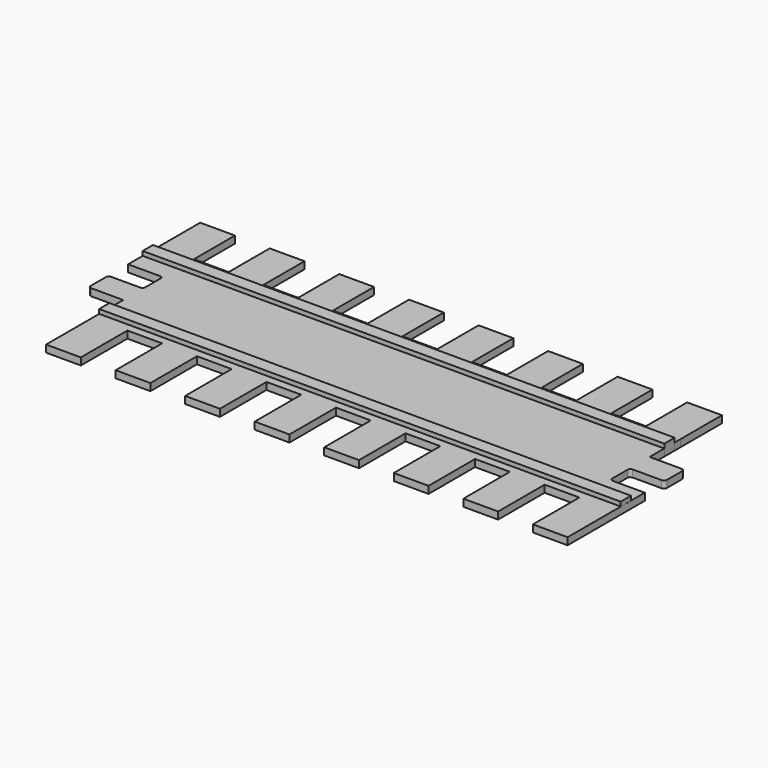
from build123d import *

# Parameters (mm, degrees)
F2_DEPTH = 31.75
F1_W     = 2314.862013
F1_H     = 57.149999
F1_W_2   = 2314.703077
F1_H_2   = 57.15
F3_DEPTH = 50.8


with BuildPart() as f2:
    # F0 (on Top) → F2 (new body)
    with BuildSketch(Plane.XY):
        with BuildLine():
            Line((141.605, 0), (0, 0))
            Line((0, 0), (-0.017486, 172.135651))
            Line((-0.017486, 172.135651), (-0.017486, 400.964946))
            Line((-0.017486, 400.964946), (-154.322486, 400.964946))
            Line((-154.322486, 400.964946), (-154.322486, 172.135651))
            Line((-154.322486, 172.135651), (-308.627486, 172.135651))
            Line((-308.627486, 172.135651), (-308.627486, 400.964946))
            Line((-308.627486, 400.964946), (-462.932486, 400.964946))
            Line((-462.932486, 400.964946), (-462.932486, 172.135651))
            Line((-462.932486, 172.135651), (-617.237486, 172.135651))
            Line((-617.237486, 172.135651), (-617.237486, 400.964946))
            Line((-617.237486, 400.964946), (-771.542486, 400.964946))
            Line((-771.542486, 400.964946), (-771.542486, 172.135651))
            Line((-771.542486, 172.135651), (-925.847486, 172.135651))
            Line((-925.847486, 172.135651), (-925.847486, 400.964946))
            Line((-925.847486, 400.964946), (-1080.152486, 400.964946))
            Line((-1080.152486, 400.964946), (-1080.152486, 172.135651))
            Line((-1080.152486, 172.135651), (-1234.457486, 172.135651))
            Line((-1234.457486, 172.135651), (-1234.457486, 400.964946))
            Line((-1234.457486, 400.964946), (-1388.762486, 400.964946))
            Line((-1388.762486, 400.964946), (-1388.762486, 172.135651))
            Line((-1388.762486, 172.135651), (-1543.067486, 172.135651))
            Line((-1543.067486, 172.135651), (-1543.067486, 399.883687))
            Line((-1543.067486, 399.883687), (-1697.372486, 399.883687))
            Line((-1697.372486, 399.883687), (-1697.372486, 172.135651))
            Line((-1697.372486, 172.135651), (-1851.677486, 172.135651))
            Line((-1851.677486, 172.135651), (-1851.677486, 399.883687))
            Line((-1851.677486, 399.883687), (-2005.982486, 399.883687))
            Line((-2005.982486, 399.883687), (-2005.982486, 172.135651))
            Line((-2005.982486, 172.135651), (-2160.287486, 172.135651))
            Line((-2160.287486, 172.135651), (-2160.287486, 399.883687))
            Line((-2160.287486, 399.883687), (-2314.592486, 399.883687))
            Line((-2314.592486, 399.883687), (-2314.592486, 0))
            Line((-2314.592486, 0), (-2172.987486, 0))
            ThreePointArc((-2172.987486, 0), (-2164.00723, -3.719744), (-2160.287486, -12.7))
            Line((-2160.287486, -12.7), (-2160.287486, -97.307886))
            ThreePointArc((-2160.287486, -97.307886), (-2164.00723, -106.288142), (-2172.987486, -110.007886))
            Line((-2172.987486, -110.007886), (-2301.892486, -110.007886))
            ThreePointArc((-2301.892486, -110.007886), (-2310.872742, -113.72763), (-2314.592486, -122.707886))
            Line((-2314.592486, -122.707886), (-2314.592486, -207.315286))
            ThreePointArc((-2314.592486, -207.315286), (-2310.872742, -216.295542), (-2301.892486, -220.015286))
            Line((-2301.892486, -220.015286), (-2160.287486, -220.015286))
            Line((-2160.287486, -220.015286), (-2160.287486, -647.870064))
            Line((-2160.287486, -647.870064), (-2005.973684, -647.870064))
            Line((-2005.973684, -647.870064), (-2005.973684, -389.817446))
            Line((-2005.973684, -389.817446), (-1851.668684, -389.817446))
            Line((-1851.668684, -389.817446), (-1851.668684, -647.870064))
            Line((-1851.668684, -647.870064), (-1697.355, -647.870064))
            Line((-1697.355, -647.870064), (-1697.355, -389.817446))
            Line((-1697.355, -389.817446), (-1543.05, -389.817446))
            Line((-1543.05, -389.817446), (-1543.05, -647.870064))
            Line((-1543.05, -647.870064), (-1388.745, -647.870064))
            Line((-1388.745, -647.870064), (-1388.745, -389.817446))
            Line((-1388.745, -389.817446), (-1234.44, -389.817446))
            Line((-1234.44, -389.817446), (-1234.44, -647.870064))
            Line((-1234.44, -647.870064), (-1080.135, -647.870064))
            Line((-1080.135, -647.870064), (-1080.135, -389.817446))
            Line((-1080.135, -389.817446), (-925.83, -389.817446))
            Line((-925.83, -389.817446), (-925.83, -647.870064))
            Line((-925.83, -647.870064), (-771.525, -647.870064))
            Line((-771.525, -647.870064), (-771.525, -389.817446))
            Line((-771.525, -389.817446), (-617.22, -389.817446))
            Line((-617.22, -389.817446), (-617.22, -647.870064))
            Line((-617.22, -647.870064), (-462.915, -647.870064))
            Line((-462.915, -647.870064), (-462.915, -389.817446))
            Line((-462.915, -389.817446), (-308.61, -389.817446))
            Line((-308.61, -389.817446), (-308.61, -647.870064))
            Line((-308.61, -647.870064), (-154.305, -647.870064))
            Line((-154.305, -647.870064), (-154.305, -389.817446))
            Line((-154.305, -389.817446), (0, -389.817446))
            Line((0, -389.817446), (0, -647.870064))
            Line((0, -647.870064), (154.305, -647.870064))
            Line((154.305, -647.870064), (154.305, -220.015286))
            Line((154.305, -220.015286), (12.7, -220.015286))
            ThreePointArc((12.7, -220.015286), (3.719744, -216.295542), (0, -207.315286))
            Line((0, -207.315286), (0, -122.707886))
            ThreePointArc((0, -122.707886), (3.719744, -113.72763), (12.7, -110.007886))
            Line((12.7, -110.007886), (141.605, -110.007886))
            ThreePointArc((141.605, -110.007886), (150.585256, -106.288142), (154.305, -97.307886))
            Line((154.305, -97.307886), (154.305, -12.7))
            ThreePointArc((154.305, -12.7), (150.585256, -3.719744), (141.605, 0))
        make_face()
    extrude(amount=F2_DEPTH)

    # F1 (on face) → F3 (join)
    with BuildSketch(Plane.XY):
        with Locations((-1157.431006, 109.685767)):
            Rectangle(F1_W, F1_H)
        with Locations((-1003.234818, -324.710694)):
            Rectangle(F1_W_2, F1_H_2)
    extrude(amount=F3_DEPTH)


solid = f2.part
